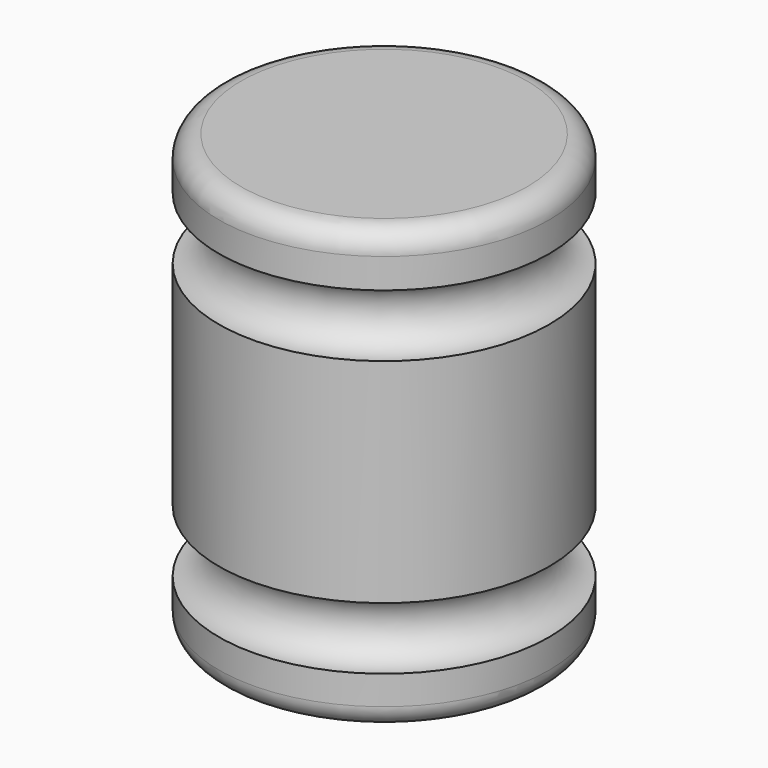
from build123d import *

# Parameters (mm, degrees)
F2_R = 5.08


with BuildPart() as f1:
    # F0 (on Front) → F1 (revolve)
    with BuildSketch(Plane.XZ):
        with BuildLine():
            Line((-38.1, 0), (0, 0))
            Line((0, 0), (0, 11.775862))
            ThreePointArc((0, 11.775862), (-7.1755, 18.951362), (0, 26.126862))
            Line((0, 26.126862), (0, 75.274789))
            ThreePointArc((0, 75.274789), (-7.180555, 82.455344), (0, 89.6359))
            Line((0, 89.6359), (0, 101.6))
            Line((0, 101.6), (-38.1, 101.6))
            Line((-38.1, 101.6), (-38.1, 0))
        make_face()
    revolve(axis=Axis((-38.1, 0, 50.8), (0, 0, 1)))

    # F2
    f2_edges = [f1.edges().sort_by_distance(p)[0] for p in [
        (-76.2, 0, 101.6),
        (-76.2, 0, 0),
    ]]
    fillet(f2_edges, radius=F2_R)


solid = f1.part
